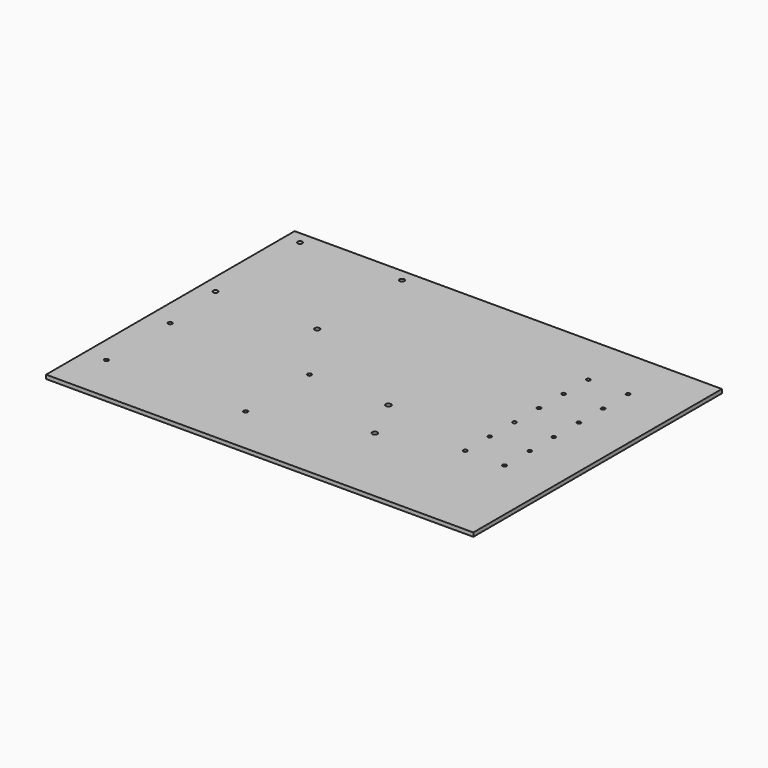
from build123d import *

# Parameters (mm, degrees)
F0_W     = 558.8
F0_H     = 406.4
F0_R     = 2.667
F0_R_2   = 3.429
F0_R_3   = 2.4765
F0_R_4   = 3.175
F1_DEPTH = 5.08


with BuildPart() as f1:
    # F0 (on Top) → F1 (new body)
    with BuildSketch(Plane.XY):
        with Locations((219.542896, 367.376714)):
            Rectangle(F0_W, F0_H)
        with Locations((-32.053851, 227.933332)):
            Circle(F0_R, mode=Mode.SUBTRACT)
        with Locations((150.216549, 227.933332)):
            Circle(F0_R, mode=Mode.SUBTRACT)
        with Locations((-32.053851, 332.327332)):
            Circle(F0_R, mode=Mode.SUBTRACT)
        with Locations((150.216549, 332.327332)):
            Circle(F0_R, mode=Mode.SUBTRACT)
        with Locations((283.17628, 272.875279)):
            Circle(F0_R_2, mode=Mode.SUBTRACT)
        with Locations((255.23628, 330.025279)):
            Circle(F0_R_2, mode=Mode.SUBTRACT)
        with Locations((379.513532, 300.19024)):
            Circle(F0_R_3, mode=Mode.SUBTRACT)
        with Locations((431.304132, 299.805289)):
            Circle(F0_R_3, mode=Mode.SUBTRACT)
        with Locations((379.513532, 340.43654)):
            Circle(F0_R_3, mode=Mode.SUBTRACT)
        with Locations((431.304132, 340.821491)):
            Circle(F0_R_3, mode=Mode.SUBTRACT)
        with Locations((-39.673849, 415.86182)):
            Circle(F0_R_4, mode=Mode.SUBTRACT)
        with Locations((93.47605, 415.86182)):
            Circle(F0_R_4, mode=Mode.SUBTRACT)
        with Locations((-39.873949, 554.291675)):
            Circle(F0_R_4, mode=Mode.SUBTRACT)
        with Locations((93.476051, 554.291675)):
            Circle(F0_R_4, mode=Mode.SUBTRACT)
        with Locations((379.513532, 380.68284)):
            Circle(F0_R_3, mode=Mode.SUBTRACT)
        with Locations((431.304132, 380.297889)):
            Circle(F0_R_3, mode=Mode.SUBTRACT)
        with Locations((379.513532, 420.92914)):
            Circle(F0_R_3, mode=Mode.SUBTRACT)
        with Locations((379.513532, 461.17544)):
            Circle(F0_R_3, mode=Mode.SUBTRACT)
        with Locations((431.304132, 421.314091)):
            Circle(F0_R_3, mode=Mode.SUBTRACT)
        with Locations((431.304132, 460.790489)):
            Circle(F0_R_3, mode=Mode.SUBTRACT)
        with Locations((379.513532, 501.42174)):
            Circle(F0_R_3, mode=Mode.SUBTRACT)
        with Locations((431.304132, 501.806691)):
            Circle(F0_R_3, mode=Mode.SUBTRACT)
    extrude(amount=F1_DEPTH)


solid = f1.part
